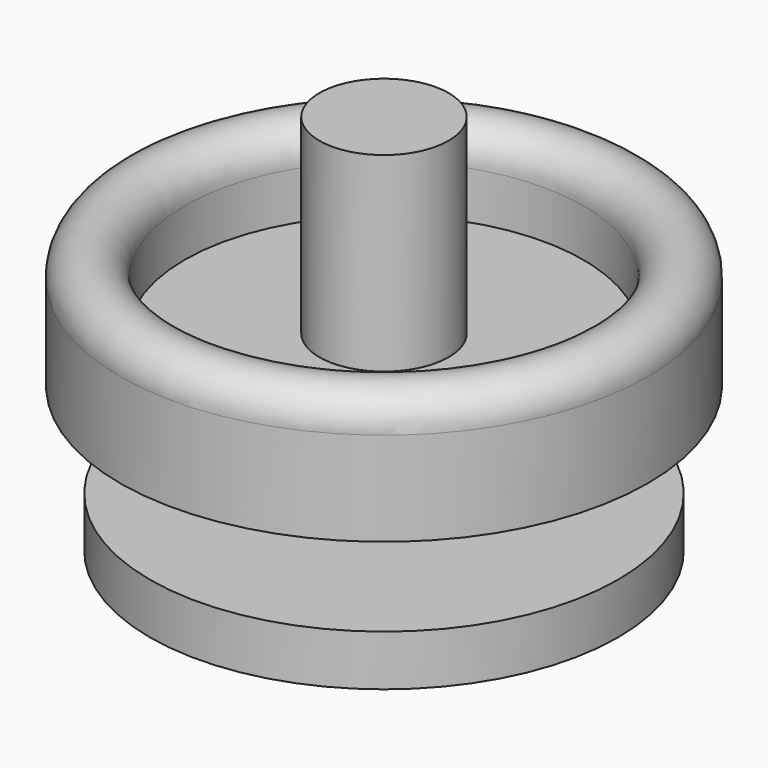
from build123d import *


with BuildPart() as f1:
    # F0 (on Front) → F1 (revolve)
    with BuildSketch(Plane.XZ):
        with BuildLine():
            Line((0, 11), (0, 0))
            Line((0, 0), (50.701149, 0))
            Line((50.701149, 0), (50.701149, 11))
            Line((50.701149, 11), (14, 11))
            Line((14, 11), (14, 31.482756))
            Line((14, 31.482756), (57.156043, 31.482756))
            Line((57.156043, 31.482756), (57.156043, 41.482756))
            Line((57.156043, 41.482756), (57.156043, 51.804224))
            ThreePointArc((57.156043, 51.804224), (50.156043, 59.297508), (43.156043, 51.804224))
            Line((43.156043, 51.804224), (43.156043, 41.482756))
            Line((43.156043, 41.482756), (14, 41.482756))
            Line((14, 41.482756), (14, 51.804224))
            Line((14, 51.804224), (14, 53.735629))
            Line((14, 53.735629), (14, 82.755983))
            Line((14, 82.755983), (0, 82.755983))
            Line((0, 82.755983), (0, 69.811666))
            Line((0, 69.811666), (0, 53.735629))
            Line((0, 53.735629), (0, 11))
        make_face()
    revolve(axis=Axis((0, 0, 32.367814), (0, 0, 1)))


solid = f1.part
